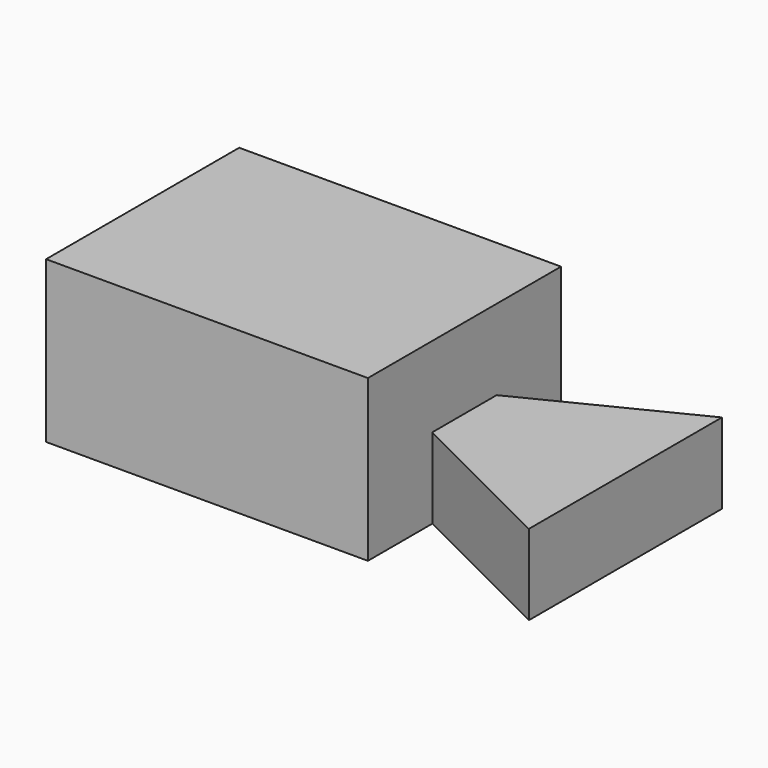
from build123d import *

# Parameters (mm, degrees)
F0_W     = 50.8
F0_H     = 25.4
F1_DEPTH = 38.1
F2_DEPTH = 38.1
F4_DEPTH = 25.4


with BuildPart() as f1:
    # F0 (on Front) → F1 (new body)
    with BuildSketch(Plane.XZ):
        Polygon((35.219945, 25.4), (-66.380055, 25.4), (-66.380055, -25.4), (35.219945, -25.4), (35.219945, 0), align=None)
        with Locations((60.619945, -12.7)):
            Rectangle(F0_W, F0_H)
    extrude(amount=F1_DEPTH)

    # F1_face (on face) → F2 (join)
    with BuildSketch(Plane(origin=(-0.340055, 0, -2.54), x_dir=(1, 0, 0), z_dir=(0, 1, 0))):
        Polygon((-66.04, -27.94), (35.56, -27.94), (35.56, -2.54), (86.36, -2.54), (86.36, 22.86), (-66.04, 22.86), align=None)
    extrude(amount=F2_DEPTH)

    # F3 (on face) → F4 (cut)
    with BuildSketch(Plane.XY):
        Polygon((35.219945, -38.1), (86.019945, -38.1), (35.219945, -12.7), align=None)
        Polygon((35.219945, 12.7), (86.019945, 38.1), (35.219945, 38.1), align=None)
    extrude(amount=-F4_DEPTH, mode=Mode.SUBTRACT)


solid = f1.part
